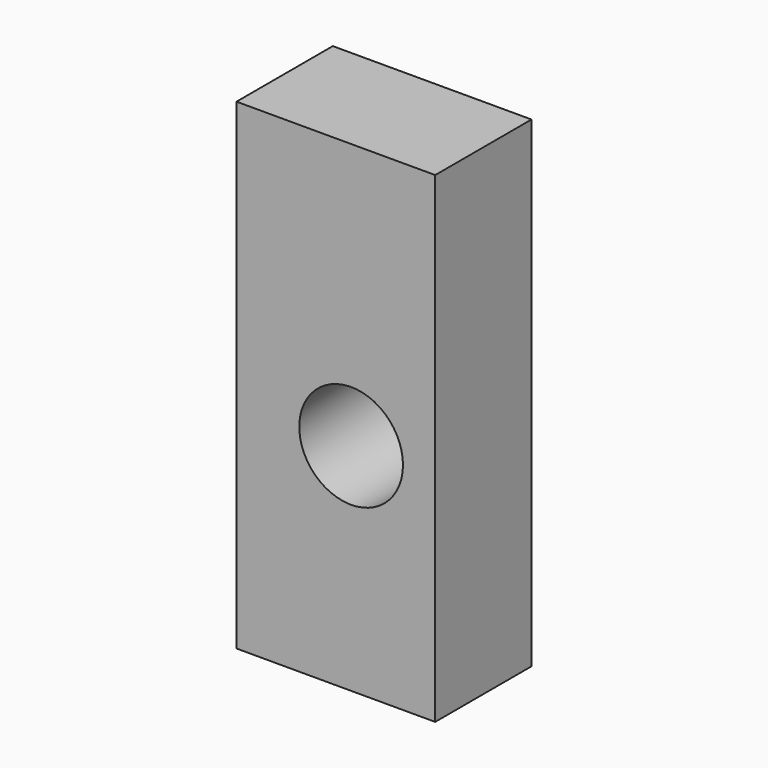
from build123d import *

# Parameters (mm, degrees)
F0_W     = 50.8
F0_H     = 203.2
F1_DEPTH = 83.865166
F2_R     = 21.886059
F3_DEPTH = 50.801


with BuildPart() as f1:
    # F0 (on Right) → F1 (new body)
    with BuildSketch(Plane.YZ):
        with Locations((-69.854085, 10.577654)):
            Rectangle(F0_W, F0_H)
    extrude(amount=F1_DEPTH)

    # F2 (on face) → F3 (cut, through all)
    with BuildSketch(Plane.XZ.offset(95.254085)):
        with Locations((48.370779, 0)):
            Circle(F2_R)
    extrude(amount=-F3_DEPTH, mode=Mode.SUBTRACT)


solid = f1.part
